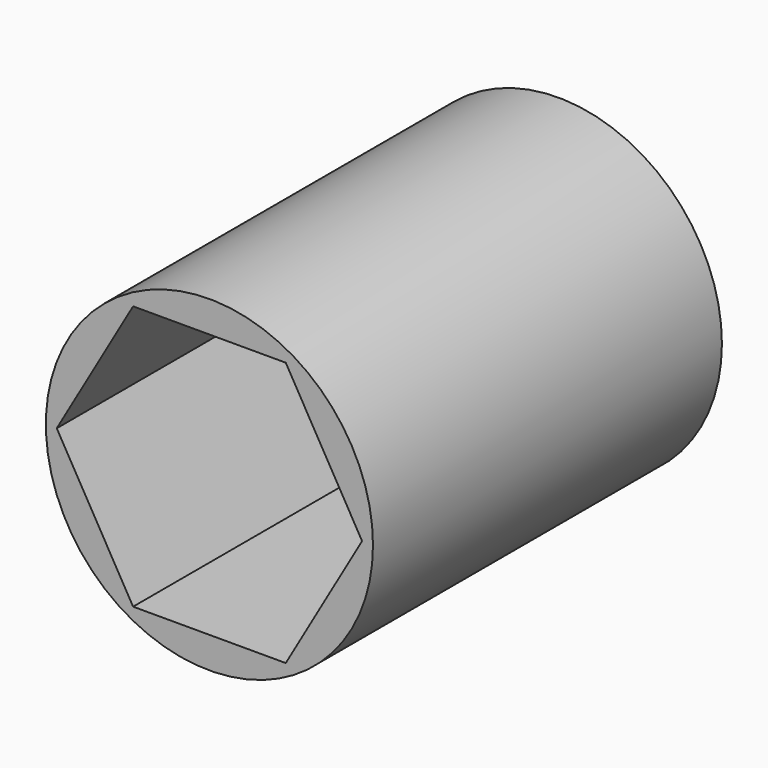
from build123d import *

# Parameters (mm, degrees)
F0_R     = 9.525
F1_DEPTH = 25.4
F3_DEPTH = 25.401
F4_DEPTH = 11.0998
F6_DEPTH = 25.4


with BuildPart() as f1:
    # F0 (on Front) → F1 (new body)
    with BuildSketch(Plane.XZ):
        with Locations((-1e-06, -3e-06)):
            Circle(F0_R)
    extrude(amount=F1_DEPTH)

    # F2 (on Front) → F3 (cut, through all)
    with BuildSketch(Plane.XZ):
        with BuildLine():
            Line((-1.107965, 4.707283), (-4.835918, 4.707283))
            Line((-4.835918, 4.707283), (-4.835918, 0))
            ThreePointArc((-4.835918, 0), (-3.791051, 3.002339), (-1.107965, 4.707283))
        make_face()
    extrude(amount=F3_DEPTH, mode=Mode.SUBTRACT)

    # F2 (on Front) → F4 (cut)
    with BuildSketch(Plane.XZ):
        with BuildLine():
            Line((-1.107965, 4.707283), (-4.835918, 4.707283))
            Line((-4.835918, 4.707283), (-4.835918, 0))
            ThreePointArc((-4.835918, 0), (-3.791051, 3.002339), (-1.107965, 4.707283))
        make_face()
        with BuildLine():
            ThreePointArc((1.107965, 4.707283), (0, 4.835918), (-1.107965, 4.707283))
            Line((-1.107965, 4.707283), (1.107965, 4.707283))
        make_face()
        with BuildLine():
            ThreePointArc((-0.41918, -4.817717), (-3.564634, -3.267949), (-4.835918, 0))
            Line((-4.835918, 0), (-4.835918, -4.817717))
            Line((-4.835918, -4.817717), (-0.41918, -4.817717))
        make_face()
        with BuildLine():
            Line((4.689082, 4.707283), (1.107965, 4.707283))
            ThreePointArc((1.107965, 4.707283), (3.392231, 3.446574), (4.689082, 1.182631))
            Line((4.689082, 1.182631), (4.689082, 4.707283))
        make_face()
        with BuildLine():
            Line((0.41918, -4.817717), (-0.41918, -4.817717))
            ThreePointArc((-0.41918, -4.817717), (0, -4.835918), (0.41918, -4.817717))
        make_face()
        with BuildLine():
            ThreePointArc((4.835918, 0), (4.799069, 0.595856), (4.689082, 1.182631))
            Line((4.689082, 1.182631), (4.689082, -1.182631))
            ThreePointArc((4.689082, -1.182631), (4.799069, -0.595856), (4.835918, 0))
        make_face()
        with BuildLine():
            ThreePointArc((4.689082, -1.182631), (3.134812, -3.682263), (0.41918, -4.817717))
            Line((0.41918, -4.817717), (4.689082, -4.817717))
            Line((4.689082, -4.817717), (4.689082, -1.182631))
        make_face()
    extrude(amount=F4_DEPTH, mode=Mode.SUBTRACT)

    # F5 (on face) → F6 (cut)
    with BuildSketch(Plane.XZ.offset(25.4)):
        Polygon((4.445, 7.698966), (-4.445, 7.698966), (-8.89, 0), (-4.445, -7.698966), (4.445, -7.698966), (8.89, 0), align=None)
        with BuildLine():
            ThreePointArc((-1.107965, 4.707283), (-3.791051, 3.002339), (-4.835918, 0))
            Line((-4.835918, 0), (-4.835918, 4.707283))
            Line((-4.835918, 4.707283), (-1.107965, 4.707283))
        make_face(mode=Mode.SUBTRACT)
    extrude(amount=-F6_DEPTH, mode=Mode.SUBTRACT)


solid = f1.part
